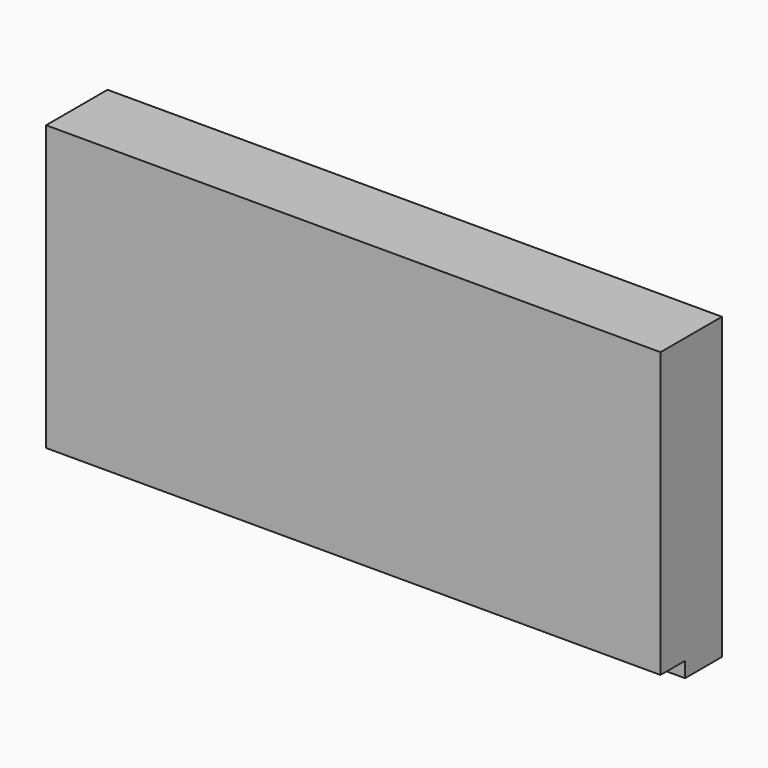
from build123d import *

# Parameters (mm, degrees)
F0_W     = 160
F0_H     = 12
F1_DEPTH = 78
F0_H_2   = 8
F2_DEPTH = 74


with BuildPart() as f1:
    # F0 (on Top) → F1 (new body)
    with BuildSketch(Plane.XY):
        with Locations((0, 4)):
            Rectangle(F0_W, F0_H)
    extrude(amount=-F1_DEPTH)

    # F0 (on Top) → F2 (join)
    with BuildSketch(Plane.XY):
        with Locations((0, -6)):
            Rectangle(F0_W, F0_H_2)
    extrude(amount=-F2_DEPTH)


solid = f1.part
